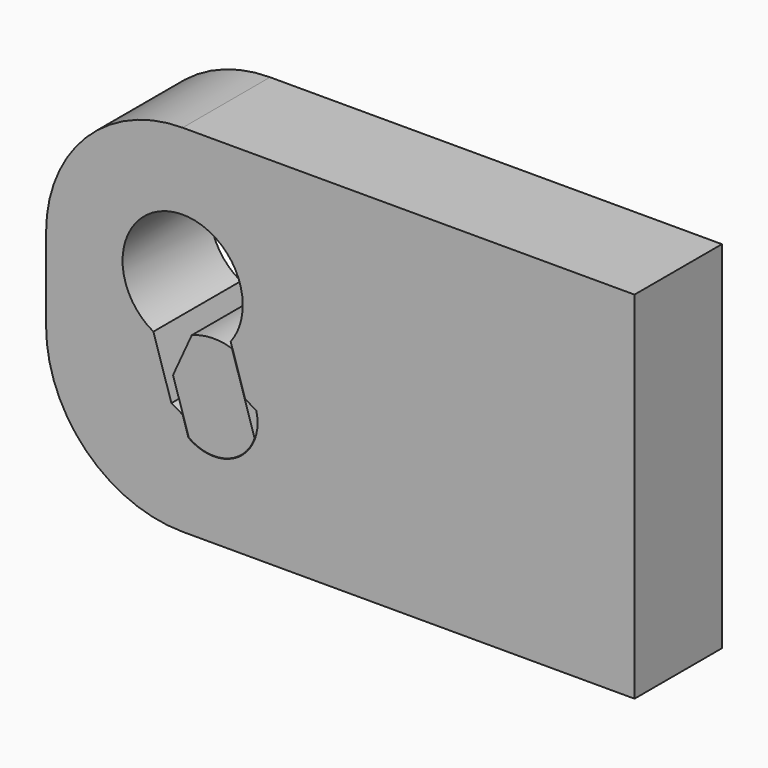
from build123d import *

# Parameters (mm, degrees)
F2_DEPTH = 25.4
F3_DEPTH = 25.4


with BuildPart() as f2:
    # F1 (on Front) → F2 (new body)
    with BuildSketch(Plane.XZ):
        with BuildLine():
            Line((9.477804, -3.367884), (5.832024, 8.195054))
            ThreePointArc((5.832024, 8.195054), (-2.608594, 9.71425), (-9.152754, 4.171151))
            ThreePointArc((-9.152754, 4.171151), (-9.323933, 3.773019), (-9.477804, 3.367884))
            Line((-9.477804, 3.367884), (-5.832024, -8.195054))
            ThreePointArc((-5.832024, -8.195054), (3.024619, -9.592867), (9.477804, -3.367884))
        make_face()
        with BuildLine():
            ThreePointArc((-9.152754, 4.171151), (-2.608594, 9.71425), (5.832024, 8.195054))
            Line((5.832024, 8.195054), (4.216625, 13.318445))
            ThreePointArc((4.216625, 13.318445), (-0.485922, 13.961546), (-5.132379, 12.993059))
            Line((-5.132379, 12.993059), (-9.152754, 4.171151))
        make_face()
    extrude(amount=F2_DEPTH)


with BuildPart() as f3:
    # F0 (on Front) → F3 (new body)
    with BuildSketch(Plane.XZ):
        with BuildLine():
            Line((0, 54.76319), (-7.256031, 54.76319))
            ThreePointArc((-7.256031, 54.76319), (-29.706671, 45.46383), (-39.006031, 23.01319))
            Line((-39.006031, 23.01319), (-39.006031, 3.879167))
            ThreePointArc((-39.006031, 3.879167), (-29.731187, -18.616173), (-7.256106, -27.94))
            Line((-7.256106, -27.94), (0, -27.94))
            Line((0, -27.94), (97.79, -27.94))
            Line((97.79, -27.94), (97.79, 54.76319))
            Line((97.79, 54.76319), (0, 54.76319))
        make_face()
        with BuildLine():
            ThreePointArc((9.861328, 2.445365), (10.085056, 1.231768), (10.16, 0))
            ThreePointArc((10.16, 0), (4.649833, -9.033529), (-5.903908, -8.268583))
            ThreePointArc((-5.903908, -8.268583), (-6.605389, -7.719744), (-7.256106, -7.111577))
            ThreePointArc((-7.256106, -7.111577), (-8.712304, -5.226984), (-9.689764, -3.055171))
            Line((-9.689764, -3.055171), (-14.062541, 10.813505))
            ThreePointArc((-14.062541, 10.813505), (-14.329713, 35.059929), (6.713969, 23.01319))
            ThreePointArc((6.713969, 23.01319), (5.995085, 18.589523), (3.912419, 14.621133))
            Line((3.912419, 14.621133), (5.918709, 8.257995))
            ThreePointArc((5.918709, 8.257995), (8.408273, 5.703204), (9.861328, 2.445365))
        make_face(mode=Mode.SUBTRACT)
        with BuildLine():
            ThreePointArc((-7.256106, -7.111577), (-6.605389, -7.719744), (-5.903908, -8.268583))
            Line((-5.903908, -8.268583), (-7.256106, -3.979958))
            Line((-7.256106, -3.979958), (-7.256106, -7.111577))
        make_face()
        with BuildLine():
            ThreePointArc((-9.689764, -3.055171), (-8.712304, -5.226984), (-7.256106, -7.111577))
            Line((-7.256106, -7.111577), (-7.256106, -3.979958))
            Line((-7.256106, -3.979958), (-9.861328, -2.445365))
            ThreePointArc((-9.861328, -2.445365), (-9.7803, -2.751605), (-9.689764, -3.055171))
        make_face()
        with BuildLine():
            Line((7.270183, 3.971666), (9.861328, 2.445365))
            ThreePointArc((9.861328, 2.445365), (8.408273, 5.703204), (5.918709, 8.257995))
            Line((5.918709, 8.257995), (7.270183, 3.971666))
        make_face()
    extrude(amount=F3_DEPTH)


solid = Compound([f2.part, f3.part])
